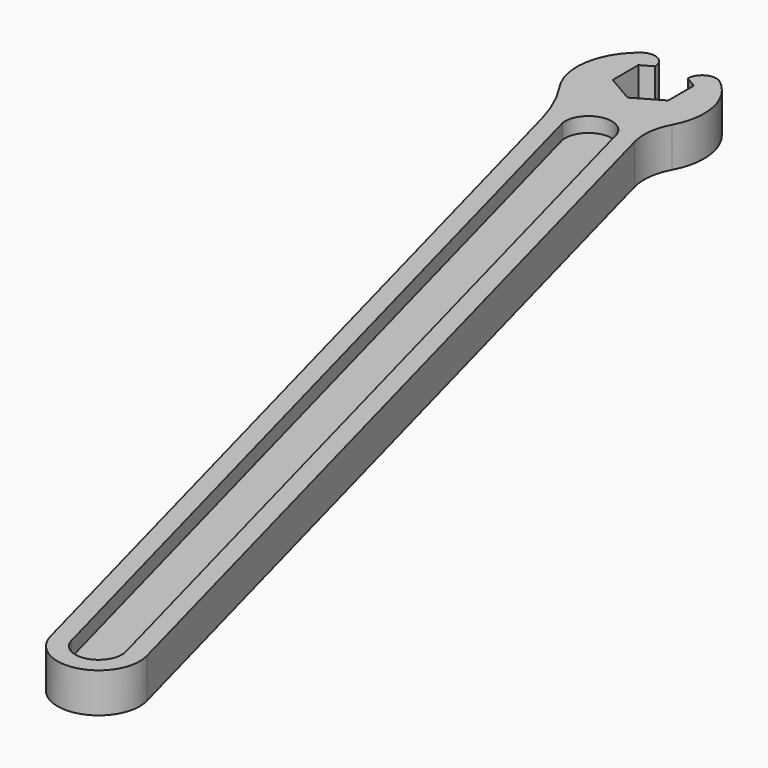
from build123d import *

# Parameters (mm, degrees)
PAD_DEPTH    = 2
POCKET_DEPTH = 1.5


with BuildPart() as part:
    # Sketch → Pad (new body, symmetric)
    with BuildSketch(Plane.XY):
        with BuildLine():
            ThreePointArc((21.881905, -103.28096), (26.953701, -106.209163), (29.881905, -101.137367))
            Line((29.881905, -101.137367), (5.134572, -8.779064))
            ThreePointArc((5.623337, -4.655828), (4.982691, -6.670473), (5.134572, -8.779064))
            ThreePointArc((5.623337, -4.655828), (6.272045, -0.326637), (3.986441, 3.406824))
            ThreePointArc((3.986441, 3.406824), (2.464526, 3.577404), (1.65, 2.280534))
            Line((1.65, 2.280534), (2.8, 1.616581))
            Line((2.8, -1.616581), (2.8, 1.616581))
            Line((0, -3.233162), (2.8, -1.616581))
            Line((-2.8, -1.616581), (0, -3.233162))
            Line((-2.8, 1.616581), (-2.8, -1.616581))
            Line((-1.65, 2.280534), (-2.8, 1.616581))
            ThreePointArc((-1.65, 2.280534), (-2.464526, 3.577404), (-3.986441, 3.406824))
            ThreePointArc((-3.986441, 3.406824), (-6.322816, -0.609041), (-5.327083, -5.147138))
            ThreePointArc((-3.083121, -10.110216), (-4.002626, -7.537131), (-5.327083, -5.147138))
            Line((21.881905, -103.28096), (-3.083121, -10.110216))
        make_face()
    extrude(amount=PAD_DEPTH, both=True)

    # Sketch001 → Pocket (cut)
    with BuildSketch(Plane.XY.offset(2)):
        with BuildLine():
            Line((-1.297143, -9.820912), (23.620571, -102.815086))
            ThreePointArc((23.620571, -102.815086), (26.487827, -104.470497), (28.143238, -101.603241))
            Line((28.143238, -101.603241), (3.348593, -9.068367))
            ThreePointArc((3.348593, -9.068367), (0.649453, -7.121772), (-1.297143, -9.820912))
        make_face()
    pocket = extrude(amount=-POCKET_DEPTH, mode=Mode.SUBTRACT)

    # Mirrored: Pocket across XY
    add(pocket.mirror(Plane.XY), mode=Mode.SUBTRACT)


solid = part.part
